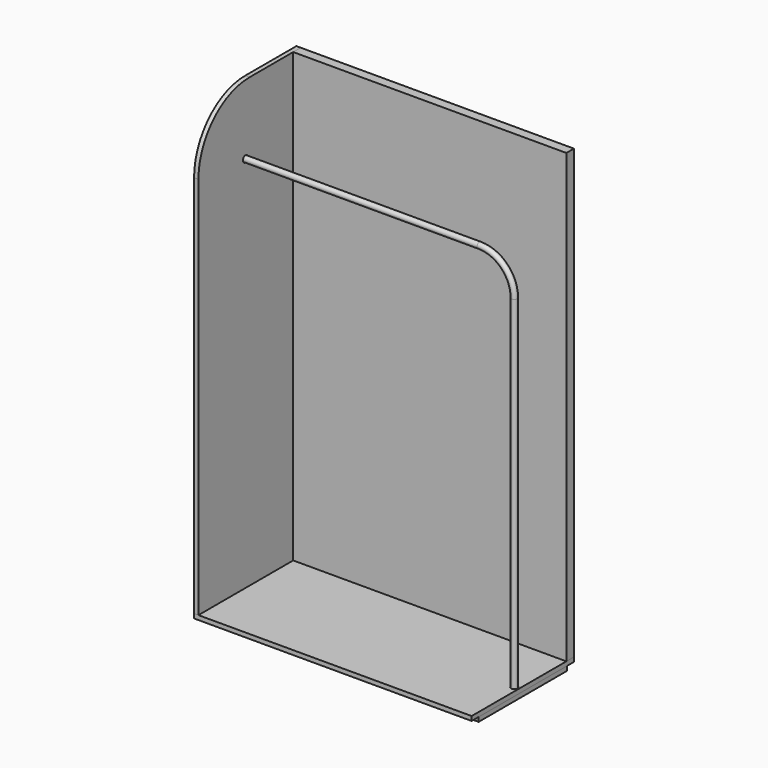
from build123d import *

# Parameters (mm, degrees)
F1_W      = 1193.8
F1_H      = 1955.8
F1_W_2    = 1117.6
F1_H_2    = 1879.6
F2_DEPTH  = 38.1
F3_W      = 1193.8
F3_H      = 1955.8
F4_DEPTH  = 3.175
F5_W      = 1212.85
F5_H      = 19.05
F6_DEPTH  = 558.8
F8_DEPTH  = 19.05
F11_R     = 14.2875
F12_DEPTH = 9.525
F13_R     = 14.2875
F14_DEPTH = 19.05
F15_W     = 1212.85
F15_H     = 482.6
F16_DEPTH = 19.05
F17_R     = 12.7


with BuildPart() as f2:
    # F1 (on Front) → F2 (new body)
    with BuildSketch(Plane.XZ):
        with Locations((596.9, 977.9)):
            Rectangle(F1_W, F1_H)
        with Locations((596.9, 977.9)):
            Rectangle(F1_W_2, F1_H_2, mode=Mode.SUBTRACT)
    extrude(amount=F2_DEPTH)


with BuildPart() as f4:
    # F3 (on face) → F4 (new body)
    with BuildSketch(Plane.XZ.offset(38.1)):
        with Locations((596.9, 977.9)):
            Rectangle(F3_W, F3_H)
    extrude(amount=F4_DEPTH)


with BuildPart() as f6:
    # F5 (on Front) → F6 (new body)
    with BuildSketch(Plane.XZ):
        with Locations((587.375, -9.525)):
            Rectangle(F5_W, F5_H)
    extrude(amount=F6_DEPTH)

    # F13 (on face) → F14 (cut, through all)
    with BuildSketch(Plane.XY):
        with Locations((1174.75, -301.625)):
            Circle(F13_R)
    extrude(amount=-F14_DEPTH, mode=Mode.SUBTRACT)


with BuildPart() as f8:
    # F7 (on face) → F8 (new body, through all)
    with BuildSketch(Plane(origin=(0, 0, 0), x_dir=(0, -1, 0), z_dir=(-1, 0, 0))):
        with BuildLine():
            Line((0, 51.9559979439), (0, 0))
            Line((0, 0), (558.8, 0))
            Line((558.8, 0), (558.8, 1676.4))
            ThreePointArc((558.8, 1676.4), (476.9656346635, 1873.9656346635), (279.4, 1955.8))
            Line((279.4, 1955.8), (38.1, 1955.8))
            Line((38.1, 1955.8), (0, 1955.8))
            Line((0, 1955.8), (0, 51.9559979439))
        make_face()
    extrude(amount=F8_DEPTH)

    # F11 (on face) → F12 (cut)
    with BuildSketch(Plane.YZ):
        with Locations((-301.625, 1651)):
            Circle(F11_R)
    extrude(amount=-F12_DEPTH, mode=Mode.SUBTRACT)


with BuildPart() as f16:
    # F15 (on face) → F16 (new body)
    with BuildSketch(Plane(origin=(0, 0, -19.05), x_dir=(1, 0, 0), z_dir=(0, 0, -1))):
        with Locations((587.375, 279.4)):
            Rectangle(F15_W, F15_H)
    extrude(amount=F16_DEPTH)


with BuildPart() as f18:
    # F18: sweep along a path in F10
    with BuildLine(Plane.XZ.offset(301.625)) as f18_path:
        Line((-9.525, 1651), (0, 1651))
        Line((0, 1651), (1022.35, 1651))
        ThreePointArc((1022.35, 1651), (1130.1130734528, 1606.3630734528), (1174.75, 1498.6))
        Line((1174.75, 1498.6), (1174.75, 0))
        Line((1174.75, 0), (1174.75, -19.05))
    # F17 (on face) → F18 (sweep)
    with BuildSketch(Plane.XY.offset(-19.05)):
        with Locations((1174.75, -301.625)):
            Circle(F17_R)
    sweep(path=f18_path.line)


solid = Compound([f2.part, f4.part, f6.part, f8.part, f16.part, f18.part])
